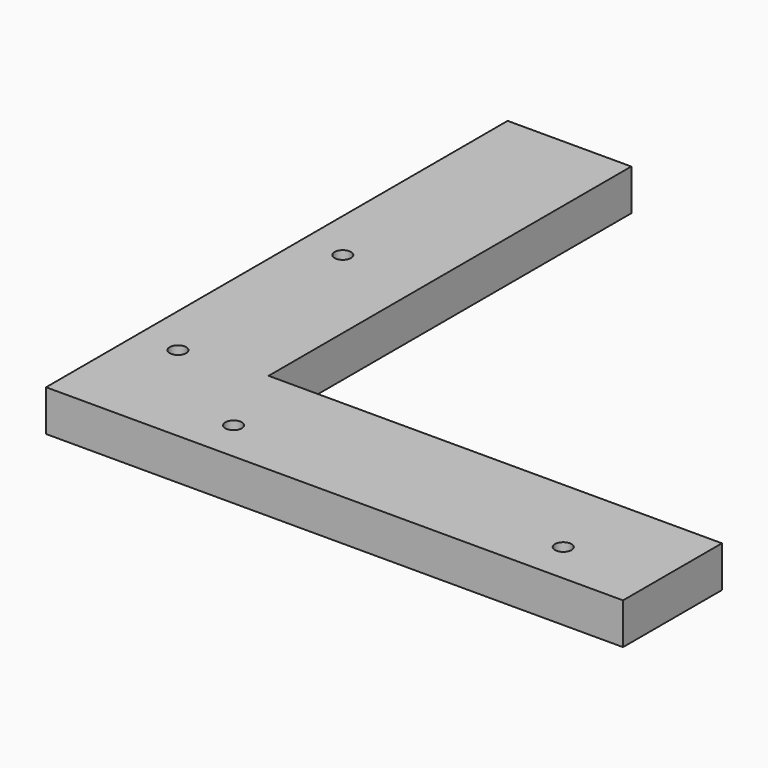
from build123d import *

# Parameters (mm, degrees)
F1_DEPTH = 12.7
F2_D     = 5.08


with BuildPart() as f1:
    # F0 (on Top) → F1 (new body)
    with BuildSketch(Plane.XY):
        Polygon((193.675, 79.375), (53.975, 79.375), (53.975, 219.075), (15.875, 219.075), (15.875, 41.275), (193.675, 41.275), align=None)
    extrude(amount=F1_DEPTH)

    # F2 (through all)
    with Locations(Plane(origin=(0, 0, 0), x_dir=(1, 0, 0), z_dir=(0, 0, -1))):
        with Locations((28.575, -139.7), (28.575, -76.2), (63.5, -53.975), (165.1, -53.975)):
            Hole(F2_D / 2)


solid = f1.part
